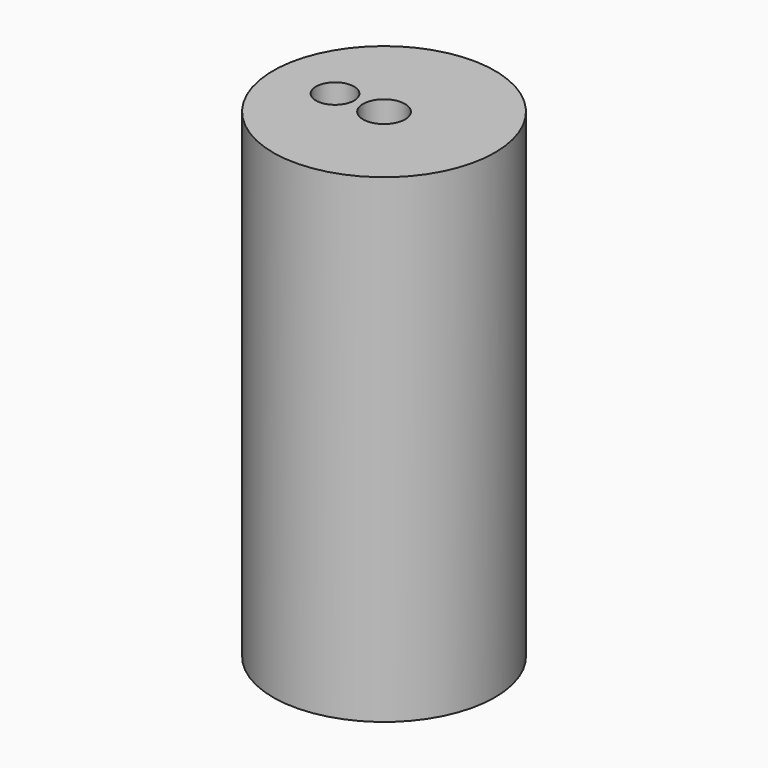
from build123d import *

# Parameters (mm, degrees)
F0_R     = 9.25
F0_R_2   = 1.75
F1_DEPTH = 25
F2_DEPTH = 15
F4_R     = 1.5899779652
F5_DEPTH = 25


with BuildPart() as f1:
    # F0 (on Top) → F1 (new body)
    with BuildSketch(Plane.XY):
        Circle(F0_R)
        Circle(F0_R_2, mode=Mode.SUBTRACT)
    extrude(amount=F1_DEPTH)

    # F2 (add): a face of the model
    f2_faces = [f1.faces().sort_by_distance(p)[0] for p in [
        (-8.988370491, 0, 0),
    ]]
    extrude(f2_faces, amount=F2_DEPTH)

    # F4 (on face) → F5 (cut)
    with BuildSketch(Plane.XY.offset(25)):
        with Locations((-4.0855864063, 0)):
            Circle(F4_R)
    extrude(amount=-F5_DEPTH, mode=Mode.SUBTRACT)


solid = f1.part
